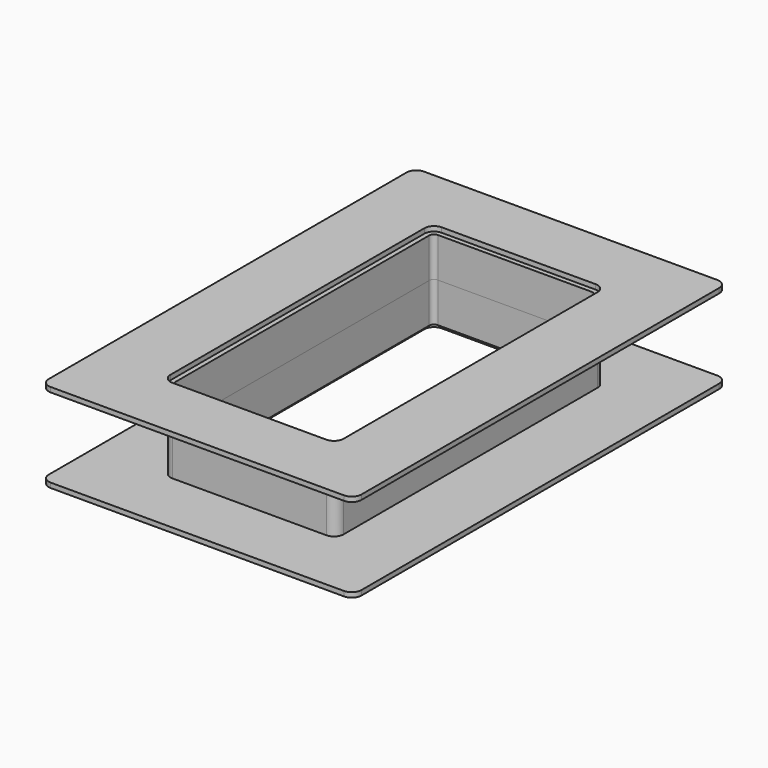
from build123d import *

# Parameters (mm, degrees)
F1_DEPTH = 1
F2_DEPTH = 8.25


with BuildPart() as f1:
    # F0 (on Top) → F1 (new body)
    with BuildSketch(Plane.XY):
        with BuildLine():
            Line((32.5, -46.5), (32.5, 0))
            Line((32.5, 0), (32.5, 46.5))
            ThreePointArc((32.5, 46.5), (31.914214, 47.914214), (30.5, 48.5))
            Line((30.5, 48.5), (0, 48.5))
            Line((0, 48.5), (-30.5, 48.5))
            ThreePointArc((-30.5, 48.5), (-31.914214, 47.914214), (-32.5, 46.5))
            Line((-32.5, 46.5), (-32.5, 0))
            Line((-32.5, 0), (-32.5, -46.5))
            ThreePointArc((-32.5, -46.5), (-31.914214, -47.914214), (-30.5, -48.5))
            Line((-30.5, -48.5), (0, -48.5))
            Line((0, -48.5), (30.5, -48.5))
            ThreePointArc((30.5, -48.5), (31.914214, -47.914214), (32.5, -46.5))
        make_face()
        with BuildLine():
            ThreePointArc((16, 35), (17.414214, 34.414214), (18, 33))
            Line((18, 33), (18, -33))
            ThreePointArc((18, -33), (17.414214, -34.414214), (16, -35))
            Line((16, -35), (-16, -35))
            ThreePointArc((-16, -35), (-17.414214, -34.414214), (-18, -33))
            Line((-18, -33), (-18, 33))
            ThreePointArc((-18, 33), (-17.414214, 34.414214), (-16, 35))
            Line((-16, 35), (16, 35))
        make_face(mode=Mode.SUBTRACT)
    extrude(amount=F1_DEPTH)


with BuildPart() as f2:
    # F0 (on Top) → F2 (new body)
    with BuildSketch(Plane.XY):
        with BuildLine():
            Line((18, -33), (18, 33))
            ThreePointArc((18, 33), (17.414214, 34.414214), (16, 35))
            Line((16, 35), (-16, 35))
            ThreePointArc((-16, 35), (-17.414214, 34.414214), (-18, 33))
            Line((-18, 33), (-18, -33))
            ThreePointArc((-18, -33), (-17.414214, -34.414214), (-16, -35))
            Line((-16, -35), (16, -35))
            ThreePointArc((16, -35), (17.414214, -34.414214), (18, -33))
        make_face()
        with BuildLine():
            ThreePointArc((16, 34), (16.707107, 33.707107), (17, 33))
            Line((17, 33), (17, -33))
            ThreePointArc((17, -33), (16.707107, -33.707107), (16, -34))
            Line((16, -34), (-16, -34))
            ThreePointArc((-16, -34), (-16.707107, -33.707107), (-17, -33))
            Line((-17, -33), (-17, 33))
            ThreePointArc((-17, 33), (-16.707107, 33.707107), (-16, 34))
            Line((-16, 34), (16, 34))
        make_face(mode=Mode.SUBTRACT)
    extrude(amount=-F2_DEPTH)


with BuildPart() as f4_1:
    # F4: instance of F1
    add(f1.part.mirror(Plane.XY.offset(-8.25)))


with BuildPart() as f4_2:
    # F4: instance of F2
    add(f2.part.mirror(Plane.XY.offset(-8.25)))


solid = Compound([f1.part, f2.part, f4_1.part, f4_2.part])
